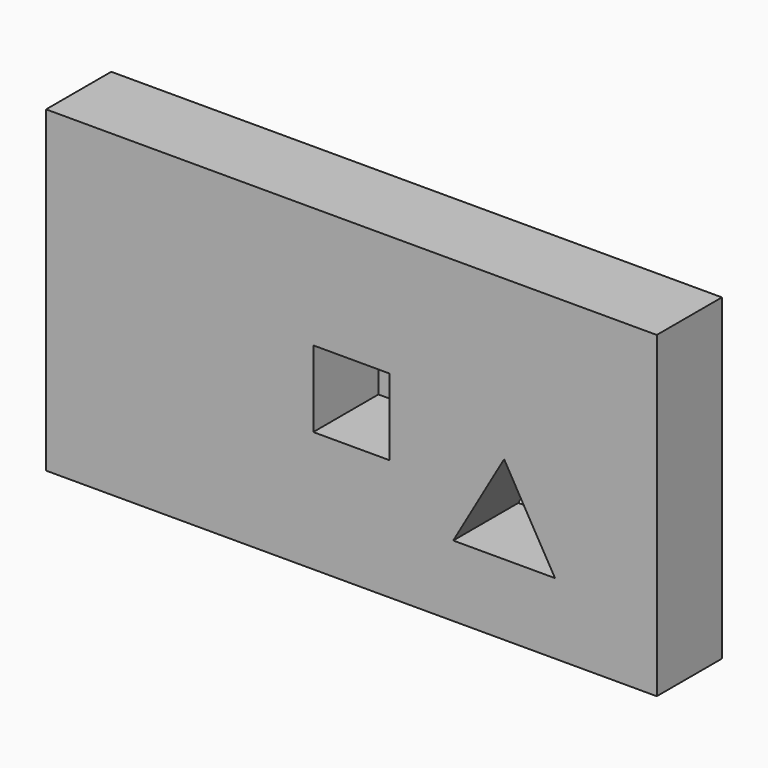
from build123d import *

# Parameters (mm, degrees)
F0_R     = 12.7
F1_DEPTH = 20.32
F2_DEPTH = 20.32
F3_DEPTH = 31.75
F4_DEPTH = 31.75


with BuildPart() as f1:
    # F0 (on Front) → F1 (new body)
    with BuildSketch(Plane.XZ):
        Polygon((44.45, -39.6875), (44.45, 0), (44.45, 39.6875), (-107.95, 39.6875), (-107.95, -39.6875), align=None)
        Polygon((-6.35, -21.997045), (6.35, 0), (19.05, -21.997045), align=None, mode=Mode.SUBTRACT)
        with Locations((-82.55, 0)):
            Circle(F0_R, mode=Mode.SUBTRACT)
        Polygon((-22.225, 9.525), (-22.225, 0), (-22.225, -9.525), (-41.275, -9.525), (-41.275, 9.525), align=None, mode=Mode.SUBTRACT)
    extrude(amount=F1_DEPTH)

    # F0 (on Front) → F2 (join)
    with BuildSketch(Plane.XZ):
        with Locations((-82.55, 0)):
            Circle(F0_R)
    extrude(amount=F2_DEPTH)

    # F0 (on Front) → F3 (join)
    with BuildSketch(Plane.XZ):
        with Locations((-82.55, 0)):
            Circle(F0_R)
    extrude(amount=-F3_DEPTH)

    # F0 (on Front) → F4 (join)
    with BuildSketch(Plane.XZ):
        Polygon((-22.225, -9.525), (-22.225, 0), (-22.225, 9.525), (-41.275, 9.525), (-41.275, -9.525), align=None)
    extrude(amount=-F4_DEPTH)


solid = f1.part
